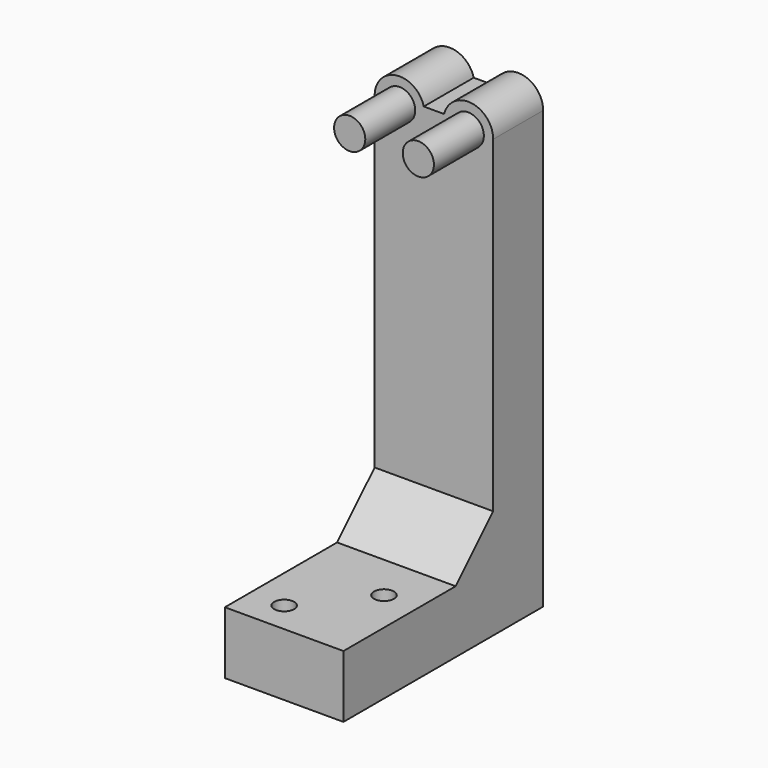
from build123d import *

# Parameters (mm, degrees)
PAD003_DEPTH    = 10
SKETCH012_W     = 19
SKETCH012_H     = 10
PAD004_DEPTH    = 30
SKETCH013_R     = 1.6
POCKET006_DEPTH = 10.001
PAD005_DEPTH    = 19
SKETCH015_R     = 2.5
PAD006_DEPTH    = 10


with BuildPart() as part:
    # Sketch010 → Pad003 (new body)
    with BuildSketch(Plane.XZ):
        with BuildLine():
            Line((9.5, 0), (9.5, 70))
            ThreePointArc((9.5, 70), (6.004017, 73.968119), (1.627017, 71))
            Line((-1.627017, 71), (1.627017, 71))
            ThreePointArc((-1.627017, 71), (-6.004017, 73.968119), (-9.5, 70))
            Line((-9.5, 70), (-9.5, 0))
            Line((-9.5, 0), (9.5, 0))
        make_face()
    extrude(amount=PAD003_DEPTH)

    # Sketch012 (on Face8 of Pad003) → Pad004 (join)
    with BuildSketch(Plane.XZ.offset(10)):
        with Locations((0, 5)):
            Rectangle(SKETCH012_W, SKETCH012_H)
    extrude(amount=PAD004_DEPTH)

    # Sketch013 (on Face6 of Pad004) → Pocket006 (cut, through all)
    with BuildSketch(Plane(origin=(0, 0, 10), x_dir=(-1, 0, 0), z_dir=(0, 0, 1))):
        with Locations((-4, 25)):
            Circle(SKETCH013_R)
        with Locations((4, 35)):
            Circle(SKETCH013_R)
    extrude(amount=-POCKET006_DEPTH, mode=Mode.SUBTRACT)

    # Sketch014 (on Face10 of Pocket006) → Pad005 (join)
    with BuildSketch(Plane(origin=(9.5, 0, 0), x_dir=(0, 0, 1), z_dir=(1, 0, 0))):
        Polygon((10, 17.517339), (17.517341, 10), (10, 10), align=None)
    extrude(amount=-PAD005_DEPTH)

    # Sketch015 (on Face4 of Pad005) → Pad006 (join)
    with BuildSketch(Plane.XZ.offset(10)):
        with Locations((-5.5, 70)):
            Circle(SKETCH015_R)
        with Locations((5.5, 70)):
            Circle(SKETCH015_R)
    extrude(amount=PAD006_DEPTH)


solid = part.part
